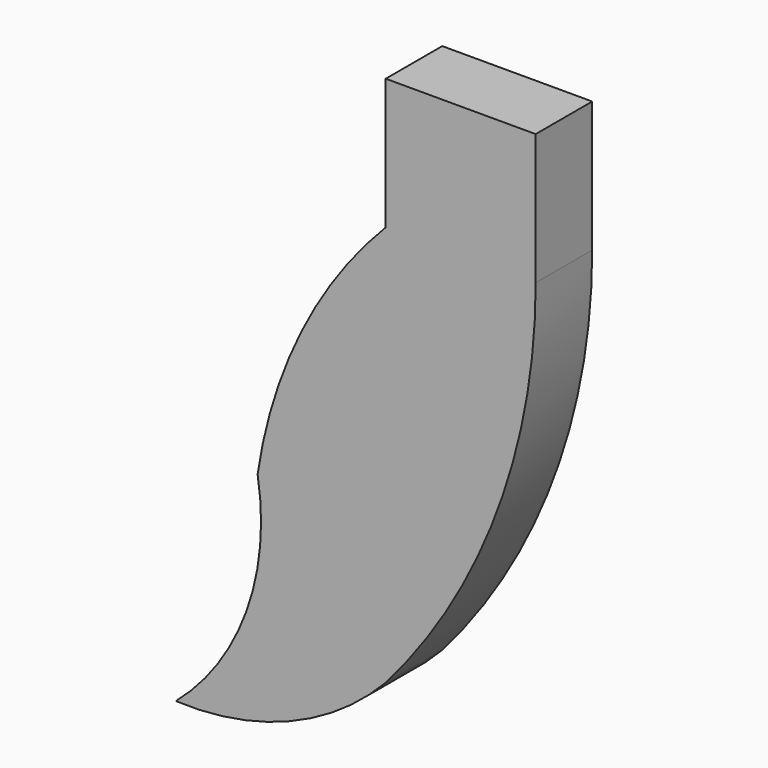
from build123d import *

# Parameters (mm, degrees)
F1_DEPTH = 6.35


with BuildPart() as f1:
    # F0 (on Front) → F1 (new body)
    with BuildSketch(Plane.XZ):
        with BuildLine():
            Line((-4.778545, 27.691057), (-18.256493, 27.691057))
            Line((-18.256493, 27.691057), (-18.256493, 15.928484))
            ThreePointArc((-18.256493, 15.928484), (-25.850649, 5.196476), (-29.774012, -7.351608))
            ThreePointArc((-29.774012, -7.351608), (-30.768982, -18.490309), (-37.125621, -27.691057))
            ThreePointArc((-37.125621, -27.691057), (-26.863912, -25.947249), (-18.256493, -20.094397))
            ThreePointArc((-18.256493, -20.094397), (-8.258358, -3.30237), (-4.778545, 15.928484))
            Line((-4.778545, 15.928484), (-4.778545, 27.691057))
        make_face()
    extrude(amount=F1_DEPTH)


solid = f1.part
